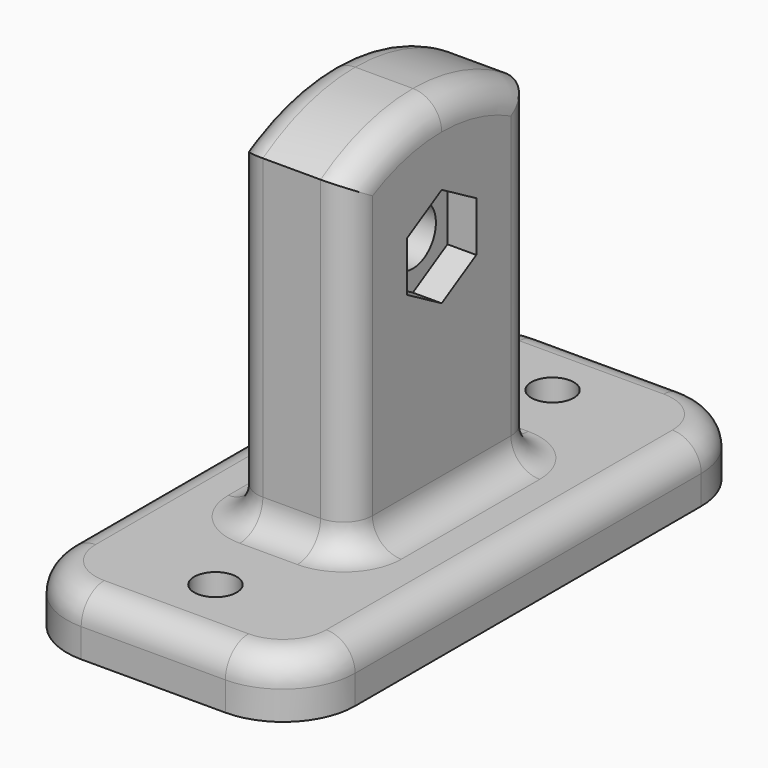
from build123d import *

# Parameters (mm, degrees)
F0_W      = 20
F0_H      = 40
F1_DEPTH  = 4
F2_W      = 8
F2_H      = 16
F3_DEPTH  = 25
F5_DEPTH  = 25
F6_R      = 5
F7_R      = 2
F8_R      = 2
F9_DEPTH  = 25
F10_R     = 1.4745216426
F11_DEPTH = 5
F13_DEPTH = 2


with BuildPart() as f1:
    # F0 (on Top) → F1 (new body)
    with BuildSketch(Plane.XY):
        Rectangle(F0_W, F0_H)
    extrude(amount=F1_DEPTH)

    # F2 (on face) → F3 (join)
    with BuildSketch(Plane.XY.offset(4)):
        Rectangle(F2_W, F2_H)
    extrude(amount=F3_DEPTH)

    # F4 (on face) → F5 (cut)
    with BuildSketch(Plane.YZ.offset(4)):
        with BuildLine():
            Line((-8, 29), (-8, 26.6885775404))
            ThreePointArc((-8, 26.6885775404), (-4.1636124275, 28.4105631935), (0, 29))
            Line((0, 29), (-8, 29))
        make_face()
        with BuildLine():
            ThreePointArc((0, 29), (4.1636124275, 28.4105631935), (8, 26.6885775404))
            Line((8, 26.6885775405), (8, 29))
            Line((8, 29), (0, 29))
        make_face()
    extrude(amount=-F5_DEPTH, mode=Mode.SUBTRACT)

    # F6
    f6_edges = [f1.edges().sort_by_distance(p)[0] for p in [
        (-10, 20, 2),
        (-10, -20, 2),
        (10, -20, 2),
        (10, 20, 2),
    ]]
    fillet(f6_edges, radius=F6_R)

    # F7
    f7_edges = [f1.edges().sort_by_distance(p)[0] for p in [
        (10, 0, 4),
        (8.535534, -18.535534, 4),
        (8.535534, 18.535534, 4),
        (0, -20, 4),
        (0, 20, 4),
        (-8.535534, -18.535534, 4),
        (-8.535534, 18.535534, 4),
        (-10, 0, 4),
        (4, 0, 4),
        (0, 8, 4),
        (-4, 0, 4),
        (0, -8, 4),
        (4, -8, 15.344289),
        (4, 0, 29),
        (4, 8, 15.344289),
        (-4, 8, 15.344289),
        (-4, 0, 29),
        (-4, -8, 15.344289),
    ]]
    fillet(f7_edges, radius=F7_R)

    # F8 (on face) → F9 (cut)
    with BuildSketch(Plane(origin=(-4, 0, 0), x_dir=(0, -1, 0), z_dir=(-1, 0, 0))):
        with Locations((0, 20)):
            Circle(F8_R)
    extrude(amount=-F9_DEPTH, mode=Mode.SUBTRACT)

    # F10 (on face) → F11 (cut)
    with BuildSketch(Plane.XY.offset(4)):
        with Locations((0, 14.610607177)):
            Circle(F10_R)
        with Locations((0, -14.610607177)):
            Circle(F10_R)
    extrude(amount=-F11_DEPTH, mode=Mode.SUBTRACT)

    # F12 (on face) → F13 (cut)
    with BuildSketch(Plane.YZ.offset(4)):
        Polygon((3, 21.7320508076), (0, 23.4641016151), (-3, 21.7320508076), (-3, 18.2679491924), (0, 16.5358983849), (3, 18.2679491924), align=None)
    extrude(amount=-F13_DEPTH, mode=Mode.SUBTRACT)


solid = f1.part
